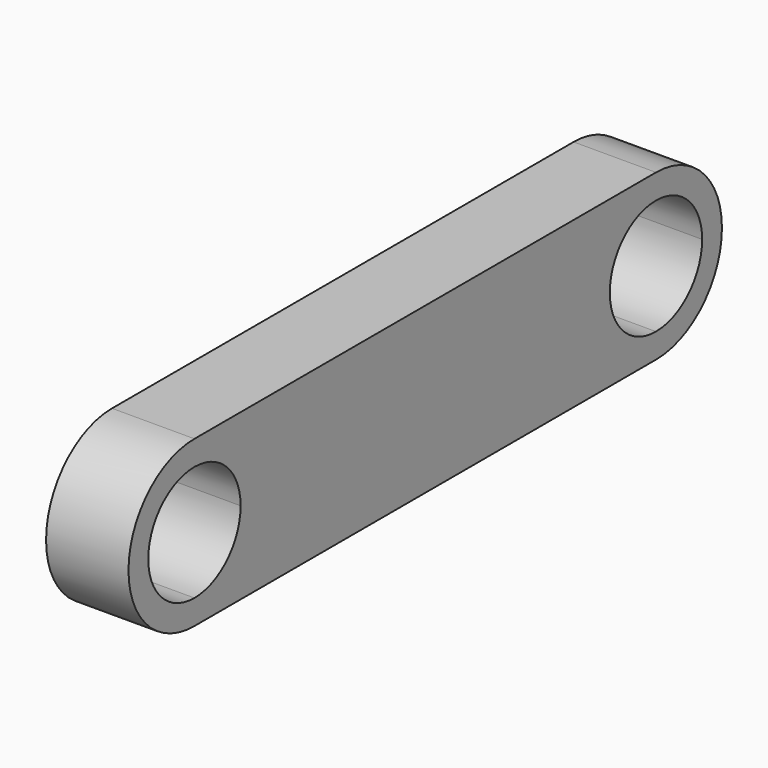
from build123d import *

# Parameters (mm, degrees)
F1_DEPTH = 5


with BuildPart() as f1:
    # F0 (on Right) → F1 (new body)
    with BuildSketch(Plane.YZ):
        with BuildLine():
            ThreePointArc((17.5, -5), (12.5, 0), (17.5, 5))
            Line((17.5, 5), (-17.5, 5))
            ThreePointArc((-17.5, 5), (-13.9644660941, 3.5355339059), (-12.5, 0))
            ThreePointArc((-12.5, 0), (-13.9644660941, -3.5355339059), (-17.5, -5))
            Line((-17.5, -5), (17.5, -5))
        make_face()
        with BuildLine():
            ThreePointArc((22.5, 0), (21.0355339059, 3.5355339059), (17.5, 5))
            Line((17.5, 5), (17.5, 3.5))
            ThreePointArc((17.5, 3.5), (19.9748737342, 2.4748737342), (21, 0))
            ThreePointArc((21, 0), (19.9748737342, -2.4748737342), (17.5, -3.5))
            Line((17.5, -3.5), (17.5, -5))
            ThreePointArc((17.5, -5), (21.0355339059, -3.5355339059), (22.5, 0))
        make_face()
        with BuildLine():
            Line((17.5, 3.5), (17.5, 5))
            ThreePointArc((17.5, 5), (12.5, 0), (17.5, -5))
            Line((17.5, -5), (17.5, -3.5))
            ThreePointArc((17.5, -3.5), (14, 0), (17.5, 3.5))
        make_face()
        with BuildLine():
            ThreePointArc((-12.5, 0), (-13.9644660941, 3.5355339059), (-17.5, 5))
            Line((-17.5, 5), (-17.5, 3.5))
            ThreePointArc((-17.5, 3.5), (-15.0251262658, 2.4748737342), (-14, 0))
            ThreePointArc((-14, 0), (-15.0251262658, -2.4748737342), (-17.5, -3.5))
            Line((-17.5, -3.5), (-17.5, -5))
            ThreePointArc((-17.5, -5), (-13.9644660941, -3.5355339059), (-12.5, 0))
        make_face()
        with BuildLine():
            Line((-17.5, 3.5), (-17.5, 5))
            ThreePointArc((-17.5, 5), (-22.5, 0), (-17.5, -5))
            Line((-17.5, -5), (-17.5, -3.5))
            ThreePointArc((-17.5, -3.5), (-21, 0), (-17.5, 3.5))
        make_face()
    extrude(amount=F1_DEPTH)


solid = f1.part
